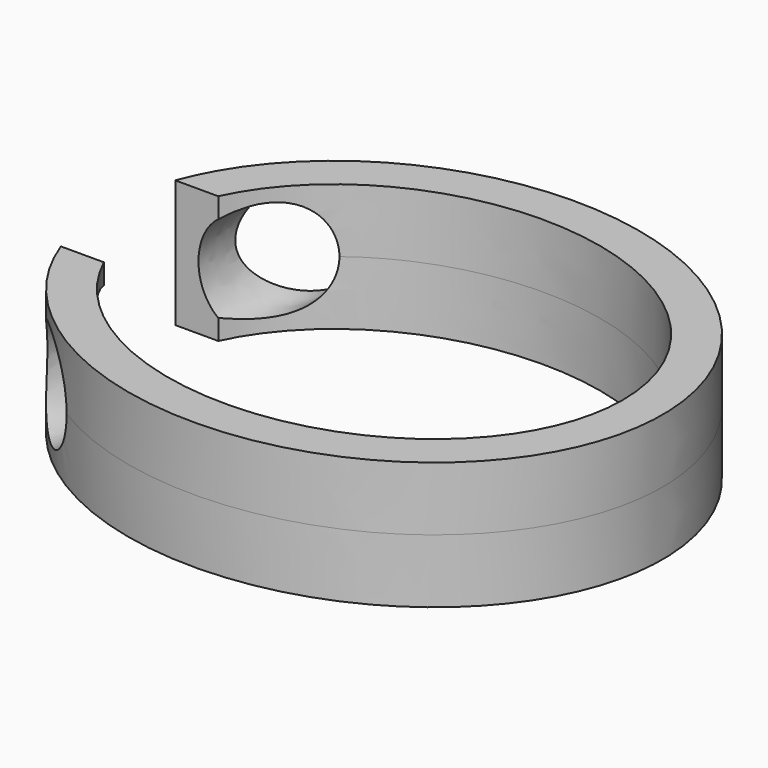
from build123d import *

# Parameters (mm, degrees)
F2_DEPTH = 4
F3_W     = 11.2592019141
F3_H     = 8.9759733528
F4_DEPTH = 12.7
F6_DEPTH = 12.7


with BuildPart() as f2:
    # F0 (on Top) → F2 (new body, symmetric)
    with BuildSketch(Plane.XY):
        with BuildLine():
            add(Edge.make_bspline(
                [(-17.5, 0), (-17.5, -25.9807621135), (8.75, -12.9903810568), (35, 0), (8.75, 12.9903810568), (-17.5, 25.9807621135), (-17.5, 0)],
                knots=[0, 0, 0, 2.0943951024, 2.0943951024, 4.1887902048, 4.1887902048, 6.2831853072, 6.2831853072, 6.2831853072], degree=2, weights=[1, 0.5, 1, 0.5, 1, 0.5, 1]))
        make_face()
        with BuildLine():
            add(Edge.make_bspline(
                [(-15, 0), (-15, -21.6506350946), (7.5, -10.8253175473), (30, 0), (7.5, 10.8253175473), (-15, 21.6506350946), (-15, 0)],
                knots=[0, 0, 0, 2.0943951024, 2.0943951024, 4.1887902048, 4.1887902048, 6.2831853072, 6.2831853072, 6.2831853072], degree=2, weights=[1, 0.5, 1, 0.5, 1, 0.5, 1]))
        make_face(mode=Mode.SUBTRACT)
    extrude(amount=F2_DEPTH, both=True)

    # F3 (on Top) → F4 (cut, symmetric)
    with BuildSketch(Plane.XY):
        with Locations((-15.3908506036, 0)):
            Rectangle(F3_W, F3_H)
    extrude(amount=F4_DEPTH, both=True, mode=Mode.SUBTRACT)

    # F5 (on Front) → F6 (cut, symmetric)
    with BuildSketch(Plane.XZ):
        with BuildLine():
            add(Edge.make_bspline(
                [(-12.7, 3.175), (-17.0994090512, 3.175), (-14.8997045256, -1.5875), (-12.7, -6.35), (-10.5002954744, -1.5875), (-8.3005909488, 3.175), (-12.7, 3.175)],
                knots=[0, 0, 0, 2.0943951024, 2.0943951024, 4.1887902048, 4.1887902048, 6.2831853072, 6.2831853072, 6.2831853072], degree=2, weights=[1, 0.5, 1, 0.5, 1, 0.5, 1]))
        make_face()
    extrude(amount=F6_DEPTH, both=True, mode=Mode.SUBTRACT)


solid = f2.part
